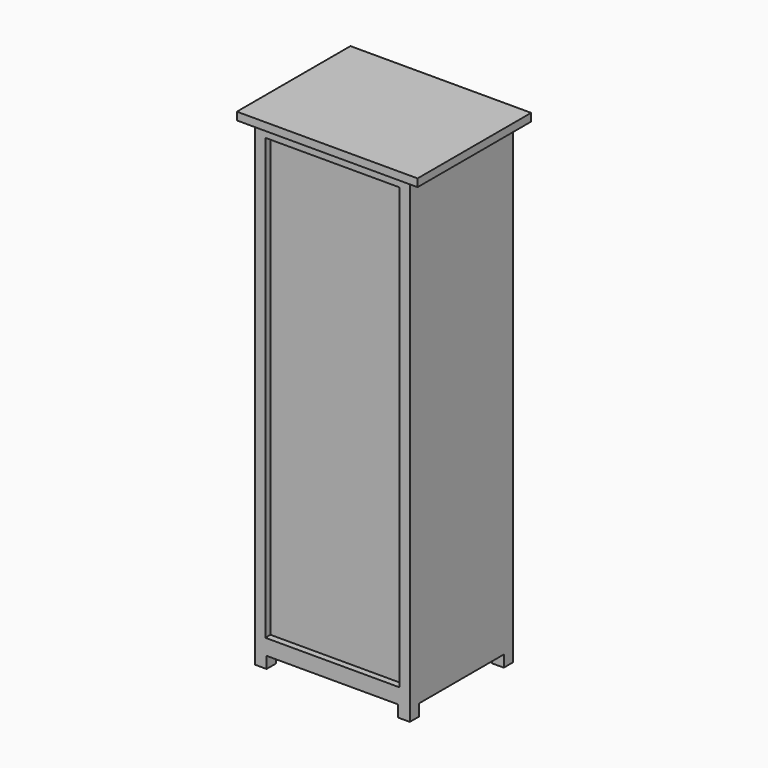
from build123d import *

# Parameters (mm, degrees)
F0_W     = 600
F0_H     = 500
F1_DEPTH = 1850
F2_W     = 700
F2_H     = 550
F3_DEPTH = 30
F4_W     = 510
F4_H     = 45
F5_DEPTH = 500
F6_W     = 410
F6_H     = 45
F7_DEPTH = 650.001
F8_W     = 520
F8_H     = 1705
F9_DEPTH = 25


with BuildPart() as f1:
    # F0 (on Top) → F1 (new body)
    with BuildSketch(Plane.XY):
        Rectangle(F0_W, F0_H)
    extrude(amount=F1_DEPTH)

    # F2 (on face) → F3 (join)
    with BuildSketch(Plane.XY.offset(1850)):
        Rectangle(F2_W, F2_H)
    extrude(amount=F3_DEPTH)

    # F4 (on face) → F5 (cut, through all)
    with BuildSketch(Plane.XZ.offset(250)):
        with Locations((0, 22.5)):
            Rectangle(F4_W, F4_H)
    extrude(amount=-F5_DEPTH, mode=Mode.SUBTRACT)

    # F6 (on face) → F7 (cut, through all)
    with BuildSketch(Plane(origin=(-300, 0, 0), x_dir=(0, -1, 0), z_dir=(-1, 0, 0))):
        with Locations((0, 22.5)):
            Rectangle(F6_W, F6_H)
    extrude(amount=-F7_DEPTH, mode=Mode.SUBTRACT)

    # F8 (on face) → F9 (cut)
    with BuildSketch(Plane.XZ.offset(250)):
        with Locations((0, 957.5)):
            Rectangle(F8_W, F8_H)
    extrude(amount=-F9_DEPTH, mode=Mode.SUBTRACT)


solid = f1.part
